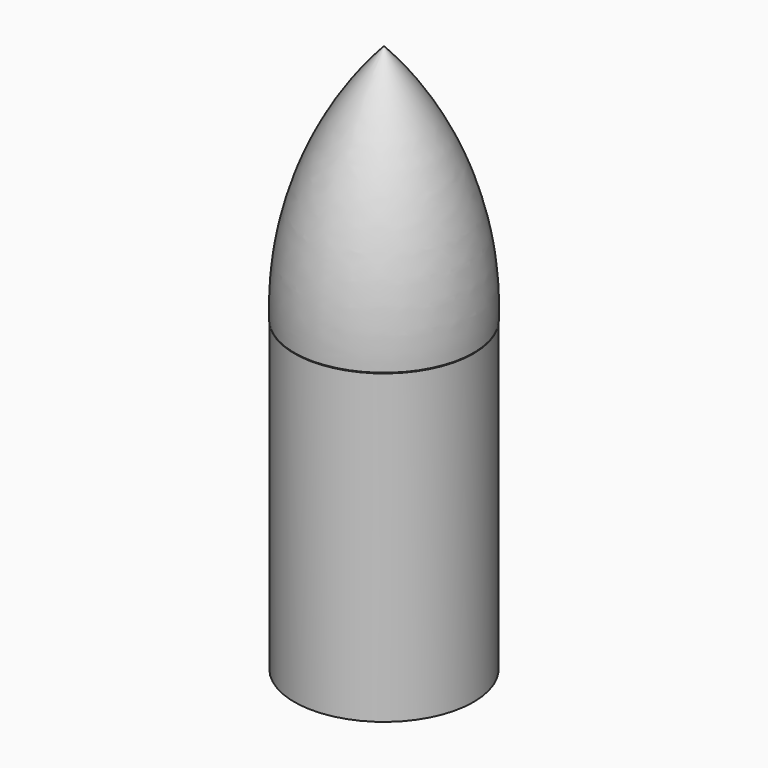
from build123d import *

# Parameters (mm, degrees)
F0_R     = 14.836815
F1_DEPTH = 50.8
F4_T     = -2.54


with BuildPart() as f1:
    # F0 (on Top) → F1 (new body)
    with BuildSketch(Plane.XY):
        Circle(F0_R)
    extrude(amount=F1_DEPTH)

    # F4
    f4_openings = [f1.faces().sort_by_distance(p)[0] for p in [
        (0, 0, 0),
    ]]
    offset(amount=F4_T, openings=f4_openings)


with BuildPart() as f3:
    # F2 (on Right) → F3 (revolve)
    with BuildSketch(Plane.YZ):
        with BuildLine():
            Line((0, 52.033052), (0, 90.81091))
            ThreePointArc((0, 90.81091), (-11.357655, 72.328253), (-14.854391, 50.918493))
            Line((-14.854391, 50.918493), (0, 50.918493))
            Line((0, 50.918493), (0, 52.033052))
        make_face()
    revolve(axis=Axis((0, 0, 71.421981), (0, 0, -1)))


solid = Compound([f1.part, f3.part])
